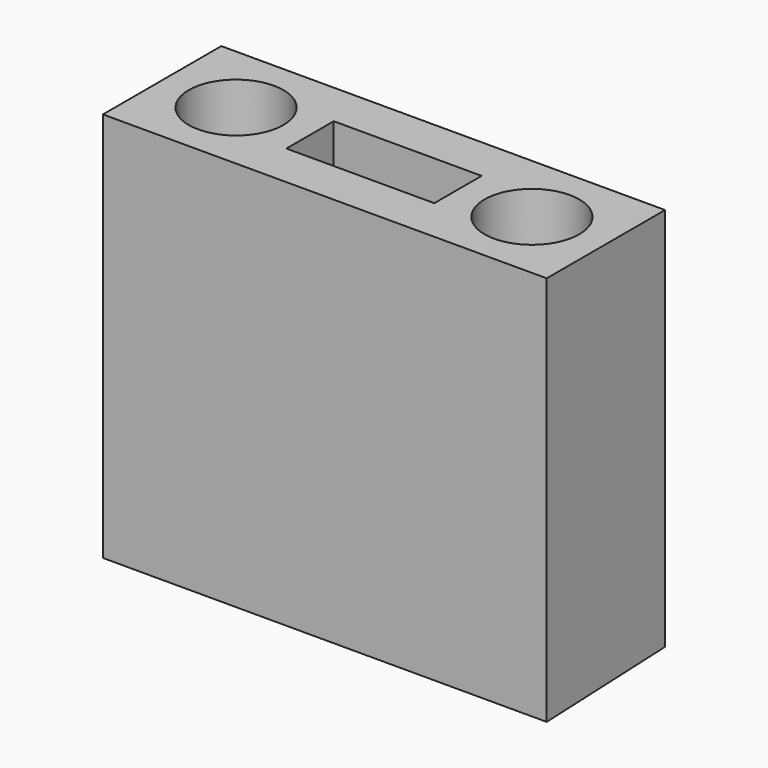
from build123d import *

# Parameters (mm, degrees)
SKETCH_W     = 15
SKETCH_H     = 10
PAD_DEPTH    = 26
PAD001_DEPTH = 15
SKETCH005_W  = 10
SKETCH005_H  = 4
POCKET_DEPTH = 26.401


with BuildPart() as revolution:
    # Sketch004 → Revolution (revolve)
    with BuildSketch(Plane.YZ.offset(5)):
        Polygon((5, 0), (8.2, 0), (8.2, 10), (6.9, 11.3), (6.9, 27), (5, 27), align=None)
    revolve(axis=Axis((5, 5, 13.2), (0, 0, -1)))


with BuildPart() as pad:
    # Sketch → Pad (new body)
    with BuildSketch(Plane.XY):
        with Locations((7.5, 5)):
            Rectangle(SKETCH_W, SKETCH_H)
    extrude(amount=PAD_DEPTH)


with BuildPart() as pad001:
    # Pad001 base: copy of Pad
    add(pad.part)

    # Sketch001 → Pad001 (new body)
    with BuildSketch(Plane.YZ.offset(15)):
        Polygon((0, 26), (10, 26), (0, 26.4), align=None)
    extrude(amount=-PAD001_DEPTH)


with BuildPart() as cut:
    # Fusion base: copy of Pad
    add(pad.part)

    # Fusion: union Pad001
    add(pad001.part)

    # Cut: cut Revolution
    add(revolution.part, mode=Mode.SUBTRACT)


with BuildPart() as part_mirroring:
    # Part__Mirroring: instance of Cut
    add(cut.part.mirror(Plane(origin=(15, 0, 0), x_dir=(0, -1, 0), z_dir=(1, 0, 0))))


with BuildPart() as fusion001:
    # Fusion001 base: copy of Cut
    add(cut.part)

    # Fusion001: union Part__Mirroring
    add(part_mirroring.part)


with BuildPart() as pocket:
    # Part__Mirroring001: instance of Fusion001
    add(fusion001.part.mirror(Plane(origin=(0, 0, 0), x_dir=(0, 1, 0), z_dir=(0, 0, 1))))

    # Sketch005 → Pocket (cut, through all)
    with BuildSketch(Plane.XY):
        with Locations((15, 5)):
            Rectangle(SKETCH005_W, SKETCH005_H)
    extrude(amount=-POCKET_DEPTH, mode=Mode.SUBTRACT)


solid = pocket.part
